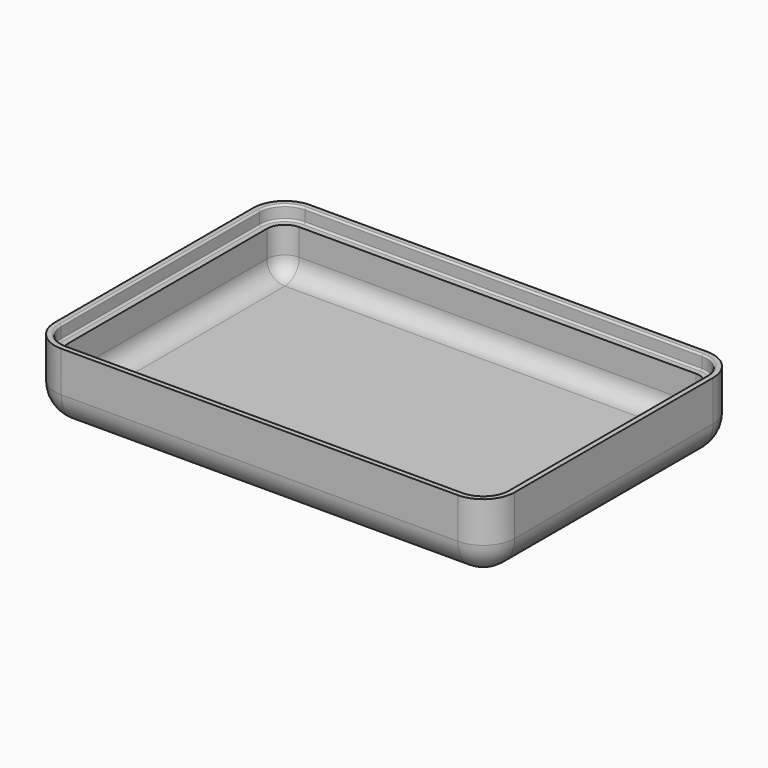
from build123d import *

# Parameters (mm, degrees)
F1_DEPTH = 16
F2_R     = 7
F3_T     = -3
F5_DEPTH = 3.1
F6_R     = 0.4


with BuildPart() as f1:
    # F0 (on Top) → F1 (new body)
    with BuildSketch(Plane.XY):
        with BuildLine():
            Line((-44, -34.5), (44, -34.5))
            ThreePointArc((44, -34.5), (48.9497474683, -32.4497474683), (51, -27.5))
            Line((51, -27.5), (51, 27.5))
            ThreePointArc((51, 27.5), (48.9497474683, 32.4497474683), (44, 34.5))
            Line((44, 34.5), (-44, 34.5))
            ThreePointArc((-44, 34.5), (-48.9497474683, 32.4497474683), (-51, 27.5))
            Line((-51, 27.5), (-51, -27.5))
            ThreePointArc((-51, -27.5), (-48.9497474683, -32.4497474683), (-44, -34.5))
        make_face()
    extrude(amount=F1_DEPTH)

    # F2
    f2_edges = [f1.edges().sort_by_distance(p)[0] for p in [
        (0, -34.5, 0),
    ]]
    fillet(f2_edges, radius=F2_R)

    # F3
    f3_openings = [f1.faces().sort_by_distance(p)[0] for p in [
        (0, 0, 16),
    ]]
    offset(amount=F3_T, openings=f3_openings)

    # F4 (on face) → F5 (cut)
    with BuildSketch(Plane.XY.offset(16)):
        with BuildLine():
            Line((49.6, -27.5), (49.6, 27.5))
            ThreePointArc((49.6, 27.5), (47.9597979746, 31.4597979746), (44, 33.1))
            Line((44, 33.1), (-44, 33.1))
            ThreePointArc((-44, 33.1), (-47.9597979746, 31.4597979746), (-49.6, 27.5))
            Line((-49.6, 27.5), (-49.6, -27.5))
            ThreePointArc((-49.6, -27.5), (-47.9597979746, -31.4597979746), (-44, -33.1))
            Line((-44, -33.1), (44, -33.1))
            ThreePointArc((44, -33.1), (47.9597979746, -31.4597979746), (49.6, -27.5))
        make_face()
        with BuildLine():
            Line((-44, 31.5), (44, 31.5))
            ThreePointArc((44, 31.5), (46.8284271247, 30.3284271247), (48, 27.5))
            Line((48, 27.5), (48, -27.5))
            ThreePointArc((48, -27.5), (46.8284271247, -30.3284271247), (44, -31.5))
            Line((44, -31.5), (-44, -31.5))
            ThreePointArc((-44, -31.5), (-46.8284271247, -30.3284271247), (-48, -27.5))
            Line((-48, -27.5), (-48, 27.5))
            ThreePointArc((-48, 27.5), (-46.8284271247, 30.3284271247), (-44, 31.5))
        make_face(mode=Mode.SUBTRACT)
    extrude(amount=-F5_DEPTH, mode=Mode.SUBTRACT)

    # F6
    f6_edges = [f1.edges().sort_by_distance(p)[0] for p in [
        (0, 33.1, 12.9),
        (0, -33.1, 16),
    ]]
    fillet(f6_edges, radius=F6_R)


solid = f1.part
